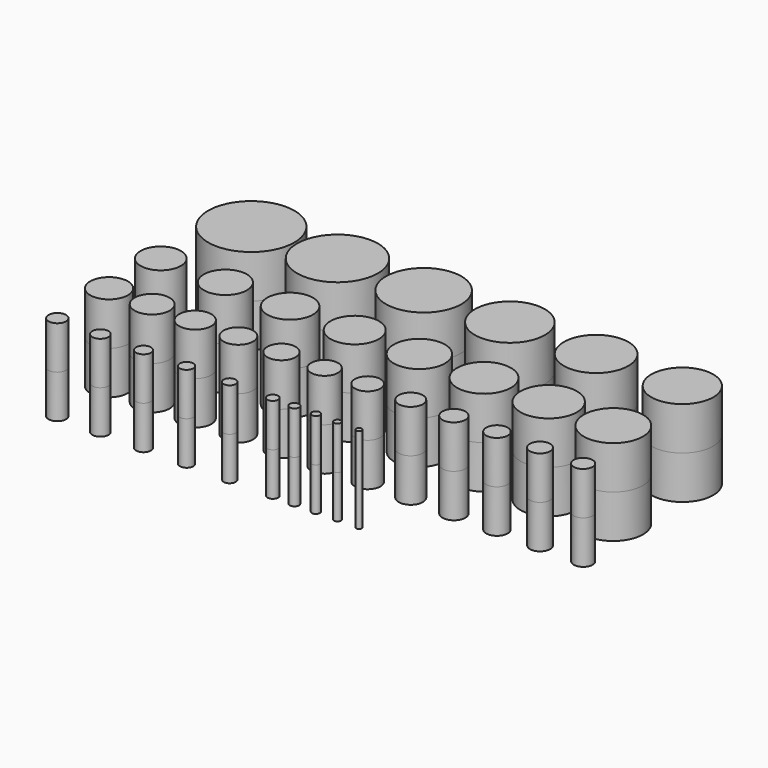
from build123d import *

# Parameters (mm, degrees)
F2_R     = 12.7
F2_R_2   = 11.90625
F2_R_3   = 11.1125
F2_R_4   = 10.31875
F2_R_5   = 9.525
F2_R_6   = 9.128125
F2_R_7   = 8.73125
F2_R_8   = 8.334375
F2_R_9   = 7.9375
F2_R_10  = 7.540625
F2_R_11  = 7.14375
F2_R_12  = 6.746875
F2_R_13  = 6.35
F2_R_14  = 5.953125
F2_R_15  = 5.55625
F2_R_16  = 5.159375
F2_R_17  = 4.7625
F2_R_18  = 4.365625
F2_R_19  = 4.167188
F2_R_20  = 3.96875
F2_R_21  = 3.770313
F2_R_22  = 3.571875
F2_R_23  = 3.373438
F2_R_24  = 3.175
F2_R_25  = 2.976563
F2_R_26  = 2.778125
F2_R_27  = 2.579688
F2_R_28  = 2.38125
F2_R_29  = 2.182813
F2_R_30  = 1.984375
F2_R_31  = 1.785938
F2_R_32  = 1.5875
F2_R_33  = 1.389063
F2_R_34  = 1.190625
F2_R_35  = 0.992188
F2_R_36  = 0.79375
F3_DEPTH = 12.7


with BuildPart() as f3:
    # F2 (on Top) → F3 (new body, symmetric)
    with BuildSketch(Plane.XY):
        with Locations((-63.5, 59.27429)):
            Circle(F2_R)
        with Locations((-38.1, 59.27429)):
            Circle(F2_R_2)
        with Locations((-12.7, 59.27429)):
            Circle(F2_R_3)
        with Locations((12.7, 59.27429)):
            Circle(F2_R_4)
        with Locations((38.1, 59.27429)):
            Circle(F2_R_5)
        with Locations((63.5, 59.27429)):
            Circle(F2_R_6)
        with Locations((63.5, 33.87429)):
            Circle(F2_R_7)
        with Locations((44.45, 33.87429)):
            Circle(F2_R_8)
        with Locations((25.4, 33.87429)):
            Circle(F2_R_9)
        with Locations((6.35, 33.87429)):
            Circle(F2_R_10)
        with Locations((-12.7, 33.87429)):
            Circle(F2_R_11)
        with Locations((-31.75, 33.87429)):
            Circle(F2_R_12)
        with Locations((-50.8, 33.87429)):
            Circle(F2_R_13)
        with Locations((-69.85, 33.87429)):
            Circle(F2_R_14)
        with Locations((-69.85, 14.82429)):
            Circle(F2_R_15)
        with Locations((-57.15, 14.82429)):
            Circle(F2_R_16)
        with Locations((-44.45, 14.82429)):
            Circle(F2_R_17)
        with Locations((-31.75, 14.82429)):
            Circle(F2_R_18)
        with Locations((-19.05, 14.82429)):
            Circle(F2_R_19)
        with Locations((-6.35, 14.82429)):
            Circle(F2_R_20)
        with Locations((6.35, 14.82429)):
            Circle(F2_R_21)
        with Locations((19.05, 14.82429)):
            Circle(F2_R_22)
        with Locations((31.75, 14.82429)):
            Circle(F2_R_23)
        with Locations((44.45, 14.82429)):
            Circle(F2_R_24)
        with Locations((57.15, 14.82429)):
            Circle(F2_R_25)
        with Locations((69.85, 14.82429)):
            Circle(F2_R_26)
        with Locations((-69.85, -4.22571)):
            Circle(F2_R_27)
        with Locations((-57.15, -4.22571)):
            Circle(F2_R_28)
        with Locations((-44.45, -4.22571)):
            Circle(F2_R_29)
        with Locations((-31.75, -4.22571)):
            Circle(F2_R_30)
        with Locations((-19.05, -4.22571)):
            Circle(F2_R_31)
        with Locations((-6.35, -4.22571)):
            Circle(F2_R_32)
        with Locations((0, -4.22571)):
            Circle(F2_R_33)
        with Locations((6.35, -4.22571)):
            Circle(F2_R_34)
        with Locations((12.7, -4.22571)):
            Circle(F2_R_35)
        with Locations((19.05, -4.22571)):
            Circle(F2_R_36)
    extrude(amount=F3_DEPTH, both=True)


solid = f3.part
